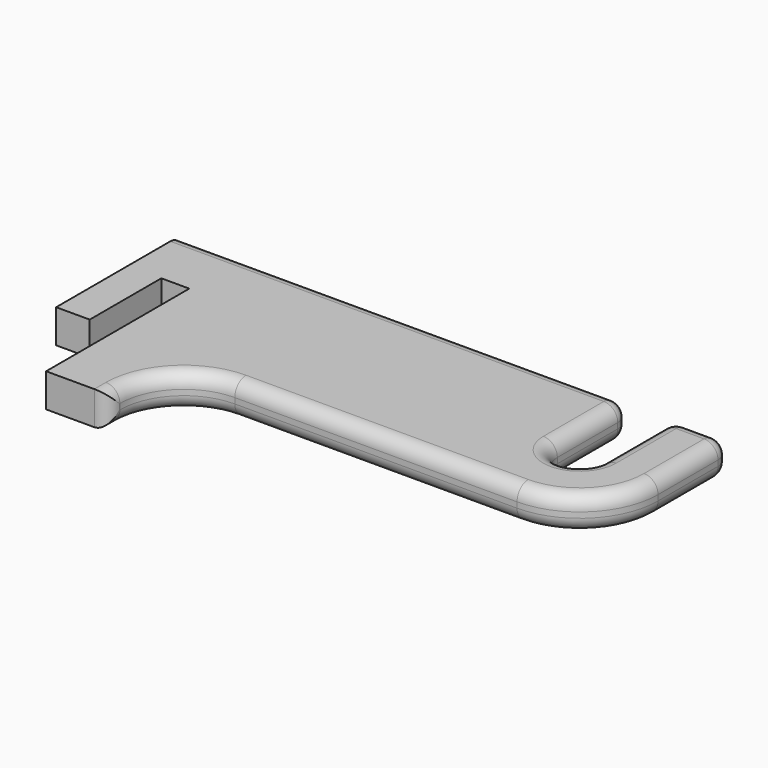
from build123d import *

# Parameters (mm, degrees)
PAD_DEPTH = 3
FILLET_R  = 1.25


with BuildPart() as part:
    # Sketch → Pad (new body)
    with BuildSketch(Plane.XY):
        with BuildLine():
            Line((0, 0), (0, 14))
            Line((0, 14), (40, 14))
            Line((40, 14), (40, 6))
            ThreePointArc((40, 6), (42, 4), (44, 6))
            Line((44, 6), (44, 13.953997))
            Line((44, 13.953997), (49, 13.953997))
            Line((49, 13.953997), (49, 6))
            ThreePointArc((42, -1), (46.949747, 1.050253), (49, 6))
            Line((16.769501, -1), (42, -1))
            ThreePointArc((16.769501, -1), (12.734056, -2.671536), (11.06252, -6.706981))
            Line((11.06252, -6.706981), (11.06252, -8))
            Line((5.5, -8), (11.06252, -8))
            Line((5.5, 8), (5.5, -8))
            Line((3, 8), (5.5, 8))
            Line((3, 0), (3, 8))
            Line((0, 0), (3, 0))
        make_face()
    extrude(amount=PAD_DEPTH)

    # Fillet
    fillet_edges = [part.edges().sort_by_distance(p)[0] for p in [
        (20, 14, 3),
        (20, 14, 0),
        (40, 14, 1.5),
        (40, 10, 0),
        (40, 10, 3),
        (42, 4, 0),
        (42, 4, 3),
        (44, 13.953997, 1.5),
        (44, 9.976998, 0),
        (44, 9.976998, 3),
        (49, 13.953997, 1.5),
        (46.5, 13.953997, 0),
        (46.5, 13.953997, 3),
        (49, 9.976998, 0),
        (49, 9.976998, 3),
        (46.949747, 1.050253, 0),
        (46.949747, 1.050253, 3),
        (29.38475, -1, 0),
        (29.38475, -1, 3),
        (12.734056, -2.671536, 0),
        (12.734056, -2.671536, 3),
        (11.06252, -8, 1.5),
        (11.06252, -7.353491, 0),
        (11.06252, -7.353491, 3),
    ]]
    fillet(fillet_edges, radius=FILLET_R)


solid = part.part
